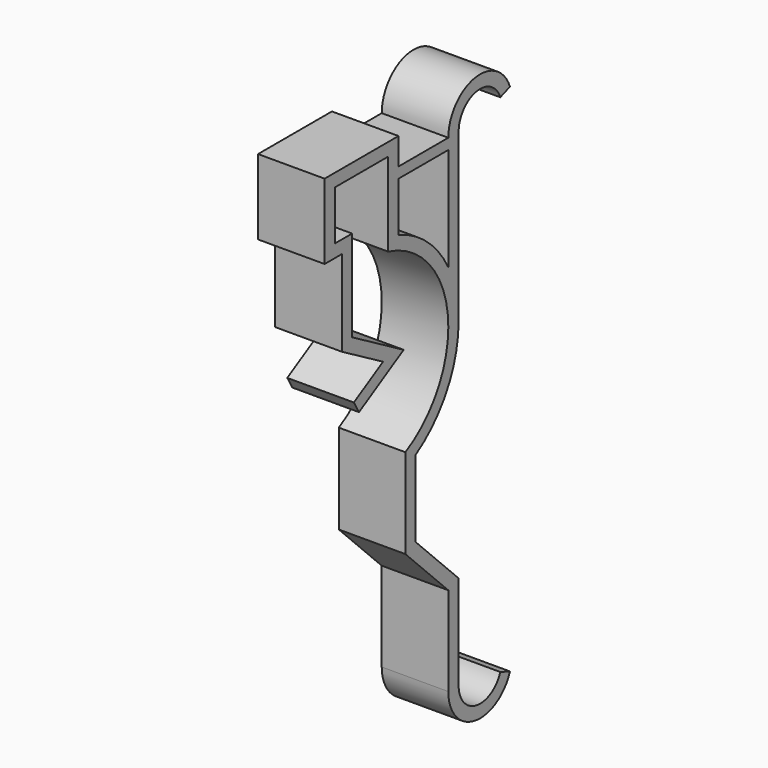
from build123d import *

# Parameters (mm, degrees)
F1_DEPTH = 7.874


with BuildPart() as f1:
    # F0 (on Right) → F1 (new body)
    with BuildSketch(Plane.YZ):
        with BuildLine():
            ThreePointArc((2.983524, -1.085914), (-0.551333, -3.126765), (-3.175, 0))
            Line((-3.175, 0), (-3.175, 11.176))
            Line((-3.175, 11.176), (-9.525, 17.526))
            Line((-9.525, 17.526), (-9.525, 26.613775))
            ThreePointArc((-9.525, 26.613775), (-4.870258, 31.466186), (-3.175, 37.973))
            Line((-3.175, 37.973), (-3.175, 57.658))
            ThreePointArc((-3.175, 57.658), (-0.551333, 60.784765), (2.983524, 58.743914))
            Line((2.983524, 58.743914), (4.415616, 59.265153))
            ThreePointArc((4.415616, 59.265153), (-0.815973, 62.285612), (-4.699, 57.658))
            Line((-4.699, 57.658), (-12.065, 57.658))
            Line((-12.065, 57.658), (-12.065, 60.833))
            Line((-12.065, 60.833), (-22.987, 60.833))
            Line((-22.987, 60.833), (-22.987, 51.943))
            Line((-22.987, 51.943), (-20.447, 51.943))
            Line((-20.447, 51.943), (-20.447, 41.783))
            Line((-20.447, 41.783), (-14.351, 38.263473))
            Line((-14.351, 38.263473), (-18.664114, 35.773295))
            Line((-18.664114, 35.773295), (-17.902114, 34.453473))
            Line((-17.902114, 34.453473), (-11.303, 38.263473))
            Line((-11.303, 38.263473), (-18.923, 42.662882))
            Line((-18.923, 42.662882), (-18.923, 53.467))
            Line((-18.923, 53.467), (-21.463, 53.467))
            Line((-21.463, 53.467), (-21.463, 59.309))
            Line((-21.463, 59.309), (-13.589, 59.309))
            Line((-13.589, 59.309), (-13.589, 49.417102))
            ThreePointArc((-13.589, 49.417102), (-4.777528, 39.33271), (-11.049, 27.500312))
            Line((-11.049, 27.500312), (-11.049, 16.894739))
            Line((-11.049, 16.894739), (-4.699, 10.544739))
            Line((-4.699, 10.544739), (-4.699, 0))
            ThreePointArc((-4.699, 0), (-0.815973, -4.627612), (4.415616, -1.607153))
            Line((4.415616, -1.607153), (2.983524, -1.085914))
        make_face()
        with BuildLine():
            Line((-12.065, 56.388), (-4.699, 56.388))
            Line((-4.699, 56.388), (-4.699, 44.163517))
            ThreePointArc((-4.699, 44.163517), (-7.778084, 48.051485), (-12.065, 50.545359))
            Line((-12.065, 50.545359), (-12.065, 56.388))
        make_face(mode=Mode.SUBTRACT)
    extrude(amount=F1_DEPTH)


solid = f1.part
